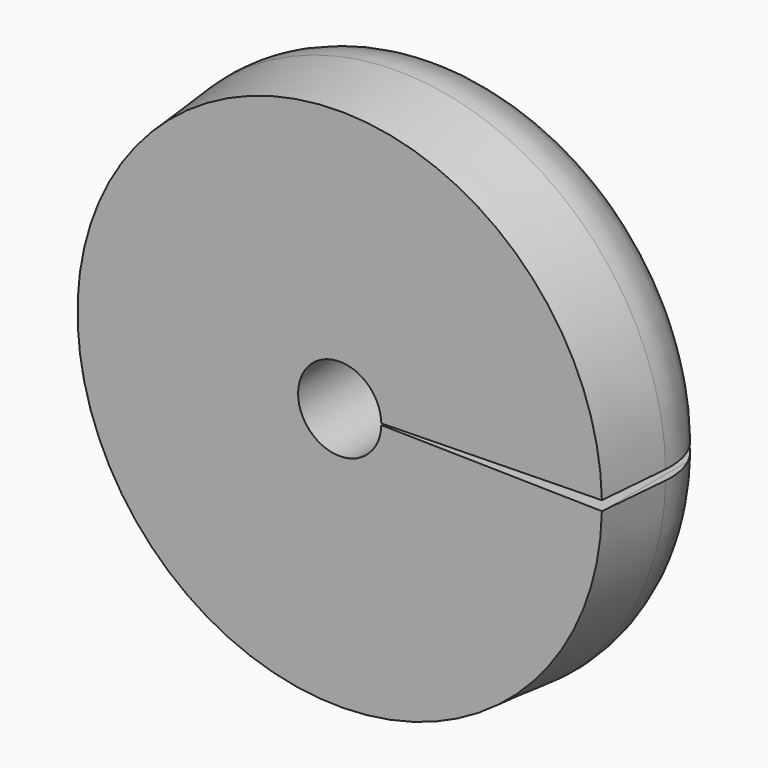
from build123d import *

# Parameters (mm, degrees)
F3_DEPTH = 25


with BuildPart() as f1:
    # F0 (on Top) → F1 (revolve)
    with BuildSketch(Plane.XY):
        with BuildLine():
            Line((1.5, 5.3077938069), (1.5, 0))
            Line((1.5, 0), (9.45, 0))
            Line((9.45, 0), (9.676587279, 2.58990445))
            ThreePointArc((9.676587279, 2.58990445), (9.0292938758, 4.4967693259), (7.1861005338, 5.3077938069))
            Line((7.1861005338, 5.3077938069), (1.5, 5.3077938069))
        make_face()
    revolve(axis=Axis((0, 4.3452630795, 0), (0, 1, 0)))

    # F2 (on face) → F3 (cut)
    with BuildSketch(Plane.XZ):
        with BuildLine():
            ThreePointArc((9.45, 0), (9.4496021647, -0.0867117579), (9.4484086923, -0.1734162148))
            Line((9.4484086923, -0.1734162148), (11.2557578832, -0.2065883251))
            Line((11.2557578832, -0.2065883251), (11.2557578832, 0))
            Line((11.2557578832, 0), (11.2557578832, 0.2065883251))
            Line((11.2557578832, 0.2065883251), (9.4484086923, 0.1734162148))
            ThreePointArc((9.4484086923, 0.1734162148), (9.4496021647, 0.0867117579), (9.45, 0))
        make_face()
        with BuildLine():
            ThreePointArc((1.5, 0), (1.4999368515, -0.0137637711), (1.4997474115, -0.0275263833))
            Line((1.4997474115, -0.0275263833), (9.4484086923, -0.1734162148))
            ThreePointArc((9.4484086923, -0.1734162148), (9.4496021647, -0.0867117579), (9.45, 0))
            ThreePointArc((9.45, 0), (9.4496021647, 0.0867117579), (9.4484086923, 0.1734162148))
            Line((9.4484086923, 0.1734162148), (1.4997474115, 0.0275263833))
            ThreePointArc((1.4997474115, 0.0275263833), (1.4999368515, 0.0137637711), (1.5, 0))
        make_face()
    extrude(amount=-F3_DEPTH, mode=Mode.SUBTRACT)


solid = f1.part
